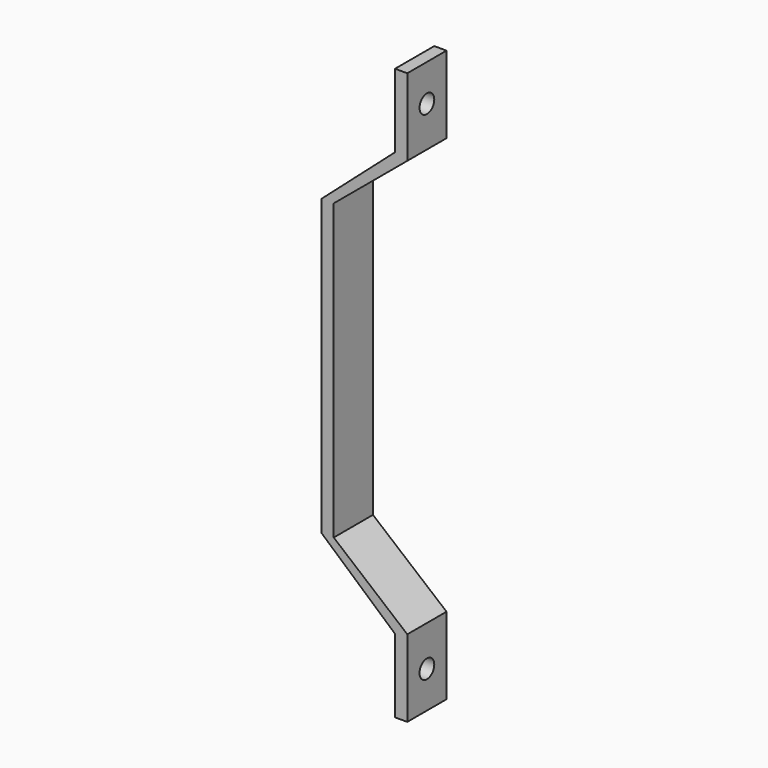
from build123d import *

# Parameters (mm, degrees)
F1_DEPTH = 25.4
F3_D     = 9.525
F3_DEPTH = 1524


with BuildPart() as f1:
    # F0 (on Front) → F1 (new body)
    with BuildSketch(Plane.XZ):
        Polygon((0, 76.2), (0, 0), (0, -76.2), (38.1, -109.801042), (38.1, -147.901042), (44.45, -147.901042), (44.45, -107.95), (6.35, -76.2), (6.35, 76.2), (44.45, 107.95), (44.45, 147.901042), (38.1, 147.901042), (38.1, 109.801042), align=None)
    extrude(amount=F1_DEPTH)

    # F3
    with Locations(Plane(origin=(38.1, 0, 0), x_dir=(0, -1, 0), z_dir=(-1, 0, 0))):
        with Locations((12.7, 128.851042), (12.7, -128.851042)):
            Hole(F3_D / 2, depth=F3_DEPTH)


solid = f1.part
